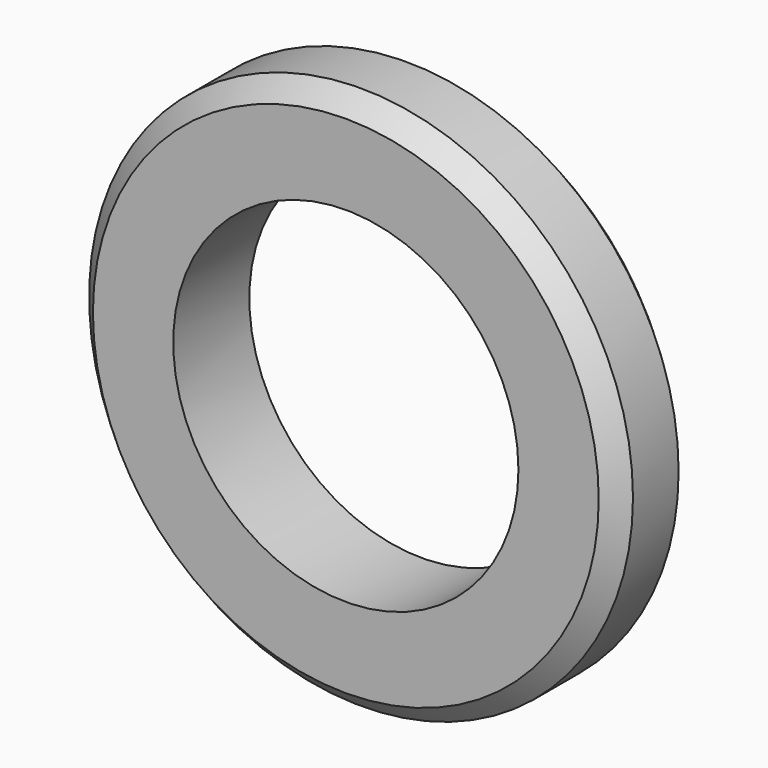
from build123d import *

# Parameters (mm, degrees)
F1_R     = 72.635004
F1_R_2   = 46.10056
F2_DEPTH = 25.4
F3_SIZE  = 5.08


with BuildPart() as f2:
    # F1 (on face) → F2 (new body)
    with BuildSketch(Plane.XZ):
        Circle(F1_R)
        Circle(F1_R_2, mode=Mode.SUBTRACT)
    extrude(amount=F2_DEPTH)

    # F3
    f3_edges = [f2.edges().sort_by_distance(p)[0] for p in [
        (72.635004, -12.7, 0),
        (-72.635004, 0, 0),
        (-72.635004, -25.4, 0),
    ]]
    chamfer(f3_edges, length=F3_SIZE)


solid = f2.part
